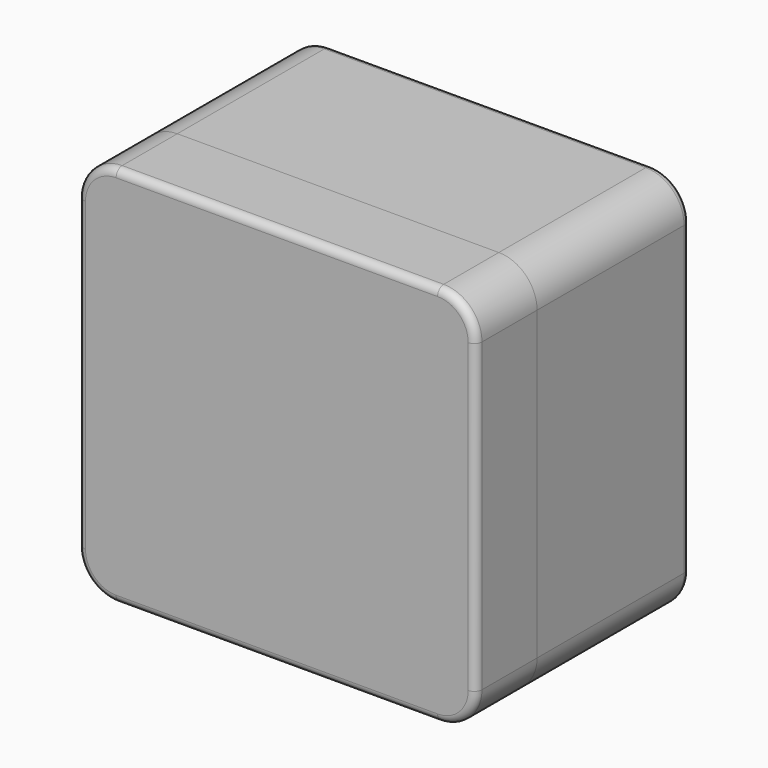
from build123d import *

# Parameters (mm, degrees)
F0_W     = 52
F0_H     = 50
F1_DEPTH = 12.5
F2_DEPTH = 10
F3_R     = 5
F3_2_R   = 5
F4_R     = 1
F4_2_R   = 1
F5_R     = 1
F6_DEPTH = 25


with BuildPart() as f1:
    # F0 (on Front) → F1 (new body, symmetric)
    with BuildSketch(Plane.XZ):
        Rectangle(F0_W, F0_H)
    extrude(amount=F1_DEPTH, both=True)


with BuildPart() as f2:
    # F2 (new): a face of the model
    f2_faces = [f1.part.faces().sort_by_distance(p)[0] for p in [
        (0, -12.5, 0),
    ]]
    extrude(f2_faces, amount=F2_DEPTH)

    # F3#2
    f3_2_edges = [f2.edges().sort_by_distance(p)[0] for p in [
        (26, -17.5, 25),
        (26, -17.5, -25),
        (-26, -17.5, 25),
        (-26, -17.5, -25),
    ]]
    fillet(f3_2_edges, radius=F3_2_R)

    # F4#2
    f4_2_edges = [f2.edges().sort_by_distance(p)[0] for p in [
        (0, -22.5, -25),
        (-24.535534, -22.5, -23.535534),
        (24.535534, -22.5, -23.535534),
        (-26, -22.5, 0),
        (26, -22.5, 0),
        (-24.535534, -22.5, 23.535534),
        (24.535534, -22.5, 23.535534),
        (0, -22.5, 25),
    ]]
    fillet(f4_2_edges, radius=F4_2_R)


with BuildPart() as f1_1:
    add(f1.part)

    # F3
    f3_edges = [f1_1.edges().sort_by_distance(p)[0] for p in [
        (26, 0, 25),
        (-26, 0, 25),
        (26, 0, -25),
        (-26, 0, -25),
    ]]
    fillet(f3_edges, radius=F3_R)

    # F4
    f4_edges = [f1_1.edges().sort_by_distance(p)[0] for p in [
        (0, 12.5, -25),
        (-24.535534, 12.5, -23.535534),
        (24.535534, 12.5, -23.535534),
        (-26, 12.5, 0),
        (26, 12.5, 0),
        (-24.535534, 12.5, 23.535534),
        (24.535534, 12.5, 23.535534),
        (0, 12.5, 25),
    ]]
    fillet(f4_edges, radius=F4_R)

    # F5 (on face) → F6 (cut)
    with BuildSketch(Plane(origin=(0, 0, -25), x_dir=(1, 0, 0), z_dir=(0, 0, -1))):
        with Locations((-12.5, 0)):
            Circle(F5_R)
        with Locations((12.5, 0)):
            Circle(F5_R)
    extrude(amount=-F6_DEPTH, mode=Mode.SUBTRACT)


solid = Compound([f2.part, f1_1.part])
